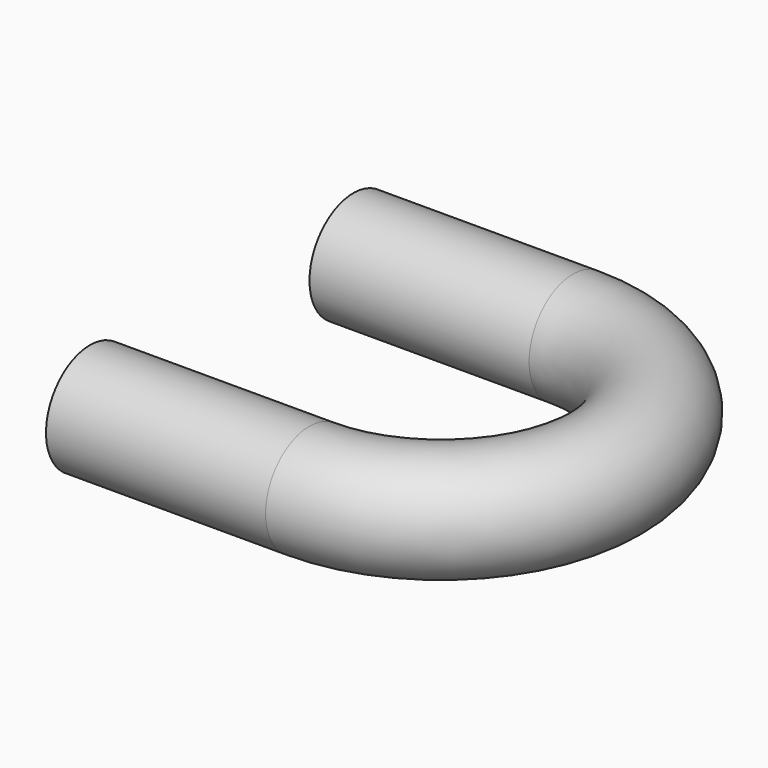
from build123d import *

# Parameters (mm, degrees)
F1_R = 2.5


with BuildPart() as f2:
    # F2: sweep along a path in F0
    with BuildLine(Plane.XY) as f2_path:
        Line((0, 0), (10, 0))
        ThreePointArc((10, 0), (17.5, 7.5), (10, 15))
        Line((10, 15), (0, 15))
    # F1 (on Right) → F2 (sweep)
    with BuildSketch(Plane.YZ):
        Circle(F1_R)
    sweep(path=f2_path.line)


solid = f2.part
